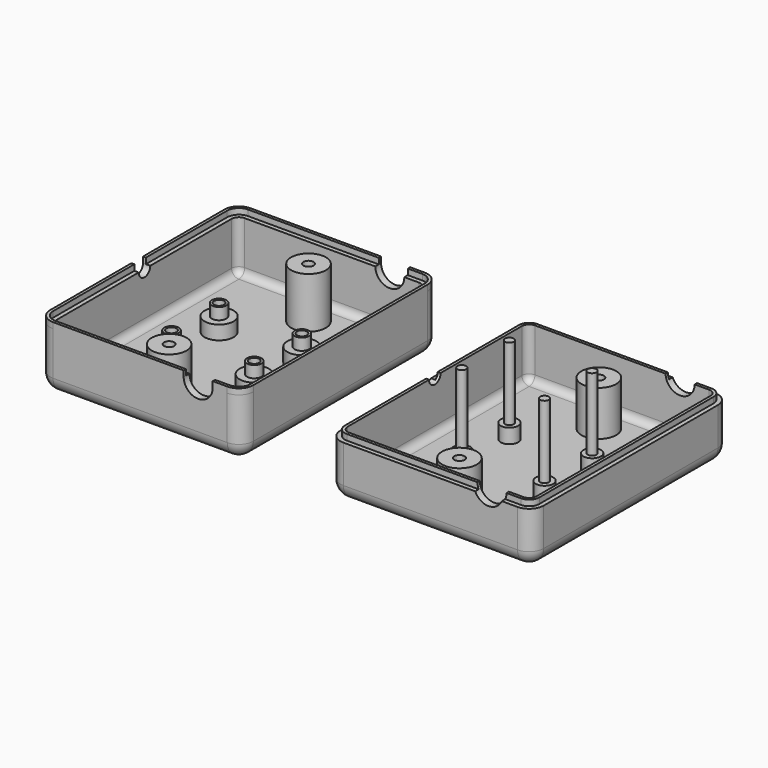
from build123d import *

# Parameters (mm, degrees)
F0_W      = 70
F0_H      = 85
F1_DEPTH  = 20
F2_R      = 5
F3_T      = -2.5
F4_R      = 2.5
F5_DEPTH  = 2.5
F6_R      = 5
F7_DEPTH  = 85.001
F11_R     = 5
F11_R_2   = 1.75
F12_DEPTH = 4.8
F13_R     = 2.5
F13_R_2   = 1.75
F14_DEPTH = 4
F15_R     = 1.5
F16_DEPTH = 30
F17_R     = 3
F17_R_2   = 1.5
F18_DEPTH = 5
F20_DEPTH = 2
F22_DEPTH = 2
F23_R     = 6
F24_DEPTH = 17.5
F25_R     = 6
F26_DEPTH = 15.5
F27_R     = 3.5
F28_DEPTH = 16
F29_R     = 1.75
F30_DEPTH = 32.501
F32_DEPTH = 10
F33_R     = 1.75
F34_DEPTH = 32.501


with BuildPart() as f1:
    # F0 (on Top) → F1 (new body)
    with BuildSketch(Plane.XY):
        with Locations((35, 42.5)):
            Rectangle(F0_W, F0_H)
    extrude(amount=-F1_DEPTH)

    # F2
    f2_edges = [f1.edges().sort_by_distance(p)[0] for p in [
        (0, 42.5, -20),
        (35, 0, -20),
        (70, 42.5, -20),
        (35, 85, -20),
        (70, 0, -10),
        (0, 0, -10),
        (0, 85, -10),
        (70, 85, -10),
    ]]
    fillet(f2_edges, radius=F2_R)

    # F3
    f3_openings = [f1.faces().sort_by_distance(p)[0] for p in [
        (35, 42.5, 0),
    ]]
    offset(amount=F3_T, openings=f3_openings)

    # F4 (on face) → F5 (cut, through all)
    with BuildSketch(Plane(origin=(0, 0, 0), x_dir=(0, -1, 0), z_dir=(-1, 0, 0))):
        with Locations((-42.5, 0)):
            Circle(F4_R)
    extrude(amount=-F5_DEPTH, mode=Mode.SUBTRACT)

    # F6 (on face) → F7 (cut, through all)
    with BuildSketch(Plane.XZ):
        with Locations((55, 0)):
            Circle(F6_R)
    extrude(amount=-F7_DEPTH, mode=Mode.SUBTRACT)


with BuildPart() as f9_1:
    # F9: copy of F1
    add(f1.part.moved(Location((100, 0, 0))))

    # F15 (on face) → F16 (join)
    with BuildSketch(Plane.XY.offset(-17.5)):
        with Locations((120, 52.75)):
            Circle(F15_R)
        with Locations((148.5, 52.75)):
            Circle(F15_R)
        with Locations((148.5, 32.25)):
            Circle(F15_R)
        with Locations((120, 32.25)):
            Circle(F15_R)
    extrude(amount=F16_DEPTH)

    # F17 (on face) → F18 (join)
    with BuildSketch(Plane.XY.offset(-17.5)):
        with Locations((148.5, 52.75)):
            Circle(F17_R)
        with Locations((148.5, 52.75)):
            Circle(F17_R_2, mode=Mode.SUBTRACT)
        with Locations((148.5, 32.25)):
            Circle(F17_R)
        with Locations((148.5, 32.25)):
            Circle(F17_R_2, mode=Mode.SUBTRACT)
        with Locations((120, 32.25)):
            Circle(F17_R)
        with Locations((120, 32.25)):
            Circle(F17_R_2, mode=Mode.SUBTRACT)
        with Locations((120, 52.75)):
            Circle(F17_R)
        with Locations((120, 52.75)):
            Circle(F17_R_2, mode=Mode.SUBTRACT)
    extrude(amount=F18_DEPTH)

    # F21 (on face) → F22 (cut)
    with BuildSketch(Plane.XY):
        with BuildLine():
            Line((100, 80), (100, 45))
            Line((100, 45), (100, 40))
            Line((100, 40), (100, 5))
            ThreePointArc((100, 5), (101.4644660941, 1.4644660941), (105, 0))
            Line((105, 0), (150, 0))
            Line((150, 0), (160, 0))
            Line((160, 0), (165, 0))
            ThreePointArc((165, 0), (168.5355339059, 1.4644660941), (170, 5))
            Line((170, 5), (170, 80))
            ThreePointArc((170, 80), (168.5355339059, 83.5355339059), (165, 85))
            Line((165, 85), (160, 85))
            Line((160, 85), (150, 85))
            Line((150, 85), (105, 85))
            ThreePointArc((105, 85), (101.4644660941, 83.5355339059), (100, 80))
        make_face()
        with BuildLine():
            Line((101.5, 40), (101.5, 45))
            Line((101.5, 45), (101.5, 80))
            ThreePointArc((101.5, 80), (102.5251262658, 82.4748737342), (105, 83.5))
            Line((105, 83.5), (150, 83.5))
            Line((150, 83.5), (160, 83.5))
            Line((160, 83.5), (165, 83.5))
            ThreePointArc((165, 83.5), (167.4748737342, 82.4748737342), (168.5, 80))
            Line((168.5, 80), (168.5, 5))
            ThreePointArc((168.5, 5), (167.4748737342, 2.5251262658), (165, 1.5))
            Line((165, 1.5), (160, 1.5))
            Line((160, 1.5), (150, 1.5))
            Line((150, 1.5), (105, 1.5))
            ThreePointArc((105, 1.5), (102.5251262658, 2.5251262658), (101.5, 5))
            Line((101.5, 5), (101.5, 40))
        make_face(mode=Mode.SUBTRACT)
    extrude(amount=-F22_DEPTH, mode=Mode.SUBTRACT)

    # F25 (on face) → F26 (join, through all)
    with BuildSketch(Plane.XY.offset(-17.5)):
        with Locations((135, 72.5)):
            Circle(F25_R)
        with Locations((135, 12.5)):
            Circle(F25_R)
    extrude(amount=F26_DEPTH)

    # F31 (on face) → F32 (cut)
    with BuildSketch(Plane(origin=(0, 0, -20), x_dir=(1, 0, 0), z_dir=(0, 0, -1))):
        Polygon((133.2679491924, -15.5), (136.7320508076, -15.5), (138.4641016151, -12.5), (136.7320508076, -9.5), (133.2679491924, -9.5), (131.5358983849, -12.5), align=None)
        Polygon((133.2679491924, -75.5), (136.7320508076, -75.5), (138.4641016151, -72.5), (136.7320508076, -69.5), (133.2679491924, -69.5), (131.5358983849, -72.5), align=None)
    extrude(amount=-F32_DEPTH, mode=Mode.SUBTRACT)

    # F33 (on face) → F34 (cut, through all)
    with BuildSketch(Plane(origin=(0, 0, -20), x_dir=(1, 0, 0), z_dir=(0, 0, -1))):
        with Locations((135, -12.5)):
            Circle(F33_R)
        with Locations((135, -72.5)):
            Circle(F33_R)
    extrude(amount=-F34_DEPTH, mode=Mode.SUBTRACT)


with BuildPart() as f1_1:
    add(f1.part)

    # F11 (on face) → F12 (join)
    with BuildSketch(Plane.XY.offset(-17.5)):
        with Locations((20, 52.75)):
            Circle(F11_R)
        with Locations((20, 52.75)):
            Circle(F11_R_2, mode=Mode.SUBTRACT)
        with Locations((48.5, 52.75)):
            Circle(F11_R)
        with Locations((48.5, 52.75)):
            Circle(F11_R_2, mode=Mode.SUBTRACT)
        with Locations((48.5, 32.25)):
            Circle(F11_R)
        with Locations((48.5, 32.25)):
            Circle(F11_R_2, mode=Mode.SUBTRACT)
        with Locations((20, 32.25)):
            Circle(F11_R)
        with Locations((20, 32.25)):
            Circle(F11_R_2, mode=Mode.SUBTRACT)
    extrude(amount=F12_DEPTH)

    # F13 (on face) → F14 (join)
    with BuildSketch(Plane.XY.offset(-12.7)):
        with Locations((20, 52.75)):
            Circle(F13_R)
        with Locations((20, 52.75)):
            Circle(F13_R_2, mode=Mode.SUBTRACT)
        with Locations((20, 32.25)):
            Circle(F13_R)
        with Locations((20, 32.25)):
            Circle(F13_R_2, mode=Mode.SUBTRACT)
        with Locations((48.5, 32.25)):
            Circle(F13_R)
        with Locations((48.5, 32.25)):
            Circle(F13_R_2, mode=Mode.SUBTRACT)
        with Locations((48.5, 52.75)):
            Circle(F13_R)
        with Locations((48.5, 52.75)):
            Circle(F13_R_2, mode=Mode.SUBTRACT)
    extrude(amount=F14_DEPTH)

    # F19 (on face) → F20 (join)
    with BuildSketch(Plane.XY):
        with BuildLine():
            Line((0, 45), (1, 45))
            Line((1, 45), (1, 80))
            ThreePointArc((1, 80), (2.1715728753, 82.8284271247), (5, 84))
            Line((5, 84), (50, 84))
            Line((50, 84), (50, 85))
            Line((50, 85), (5, 85))
            ThreePointArc((5, 85), (1.4644660941, 83.5355339059), (0, 80))
            Line((0, 80), (0, 45))
        make_face()
        with BuildLine():
            Line((60, 85), (60, 84))
            Line((60, 84), (65, 84))
            ThreePointArc((65, 84), (67.8284271247, 82.8284271247), (69, 80))
            Line((69, 80), (69, 5))
            ThreePointArc((69, 5), (67.8284271247, 2.1715728753), (65, 1))
            Line((65, 1), (60, 1))
            Line((60, 1), (60, 0))
            Line((60, 0), (65, 0))
            ThreePointArc((65, 0), (68.5355339059, 1.4644660941), (70, 5))
            Line((70, 5), (70, 80))
            ThreePointArc((70, 80), (68.5355339059, 83.5355339059), (65, 85))
            Line((65, 85), (60, 85))
        make_face()
        with BuildLine():
            Line((50, 1), (5, 1))
            ThreePointArc((5, 1), (2.1715728753, 2.1715728753), (1, 5))
            Line((1, 5), (1, 40))
            Line((1, 40), (0, 40))
            Line((0, 40), (0, 5))
            ThreePointArc((0, 5), (1.4644660941, 1.4644660941), (5, 0))
            Line((5, 0), (50, 0))
            Line((50, 0), (50, 1))
        make_face()
    extrude(amount=F20_DEPTH)

    # F23 (on face) → F24 (join, through all)
    with BuildSketch(Plane.XY.offset(-17.5)):
        with Locations((35, 72.5)):
            Circle(F23_R)
        with Locations((35, 12.5)):
            Circle(F23_R)
    extrude(amount=F24_DEPTH)

    # F27 (on face) → F28 (cut)
    with BuildSketch(Plane(origin=(0, 0, -20), x_dir=(1, 0, 0), z_dir=(0, 0, -1))):
        with Locations((35, -12.5)):
            Circle(F27_R)
        with Locations((35, -72.5)):
            Circle(F27_R)
    extrude(amount=-F28_DEPTH, mode=Mode.SUBTRACT)

    # F29 (on face) → F30 (cut, through all)
    with BuildSketch(Plane(origin=(0, 0, -20), x_dir=(1, 0, 0), z_dir=(0, 0, -1))):
        with Locations((35, -12.5)):
            Circle(F29_R)
        with Locations((35, -72.5)):
            Circle(F29_R)
    extrude(amount=-F30_DEPTH, mode=Mode.SUBTRACT)


solid = Compound([f9_1.part, f1_1.part])
